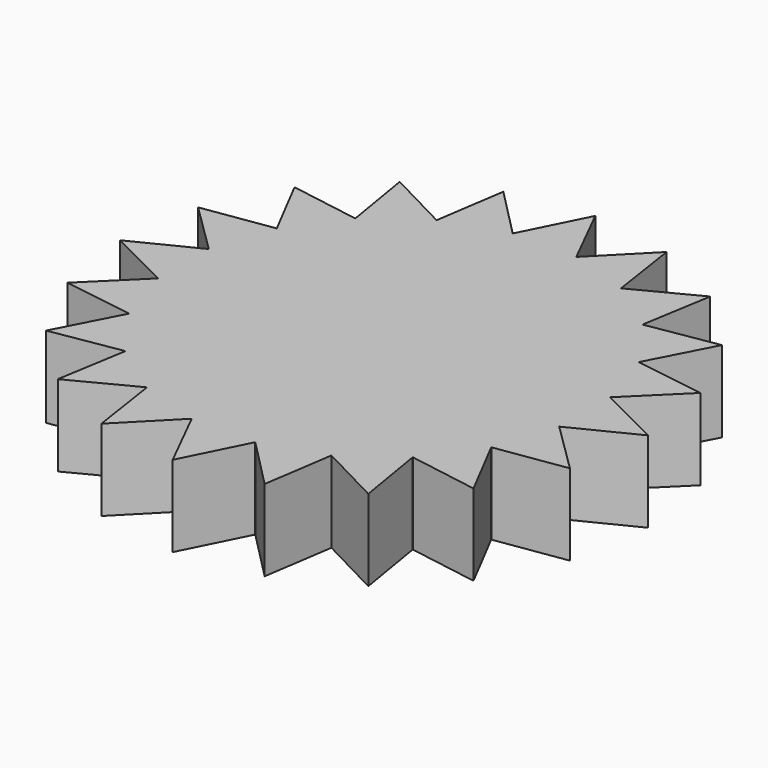
from build123d import *

# Parameters (mm, degrees)
F0_R     = 11.43
F0_R_2   = 5.08
F0_R_3   = 3.81
F1_DEPTH = 5.08


with BuildPart() as f1:
    # F0 (on Top) → F1 (new body)
    with BuildSketch(Plane.XY):
        with BuildLine():
            ThreePointArc((12.5445146004, -1.9812), (12.6610689799, -0.9936459568), (12.7, 0))
            ThreePointArc((12.7, 0), (12.6610689799, 0.9936459568), (12.5445146004, 1.9812))
            ThreePointArc((12.5445146004, 1.9812), (12.5436419256, 1.986717706), (12.5427668237, 1.9922350276))
            ThreePointArc((12.5427668237, 1.9922350276), (12.0784177569, 3.9245158286), (11.3183178852, 5.7607013678))
            ThreePointArc((11.3183178852, 5.7607013678), (11.3157828572, 5.7656793467), (11.3132456398, 5.77065621))
            ThreePointArc((11.3132456398, 5.77065621), (10.2745158286, 7.4648727041), (8.9842053561, 8.9763051485))
            ThreePointArc((8.9842053561, 8.9763051485), (8.9802561211, 8.9802561211), (8.9763051485, 8.9842053561))
            ThreePointArc((8.9763051485, 8.9842053561), (7.4648727041, 10.2745158286), (5.77065621, 11.3132456398))
            ThreePointArc((5.77065621, 11.3132456398), (5.7656793467, 11.3157828572), (5.7607013678, 11.3183178852))
            ThreePointArc((5.7607013678, 11.3183178852), (3.9245158286, 12.0784177569), (1.9922350276, 12.5427668237))
            ThreePointArc((1.9922350276, 12.5427668237), (1.986717706, 12.5436419256), (1.9812, 12.5445146004))
            ThreePointArc((1.9812, 12.5445146004), (0, 12.7), (-1.9812, 12.5445146004))
            ThreePointArc((-1.9812, 12.5445146004), (-1.986717706, 12.5436419256), (-1.9922350276, 12.5427668237))
            ThreePointArc((-1.9922350276, 12.5427668237), (-3.9245158286, 12.0784177569), (-5.7607013678, 11.3183178852))
            ThreePointArc((-5.7607013678, 11.3183178852), (-5.7656793467, 11.3157828572), (-5.77065621, 11.3132456398))
            ThreePointArc((-5.77065621, 11.3132456398), (-7.4648727041, 10.2745158286), (-8.9763051485, 8.9842053561))
            ThreePointArc((-8.9763051485, 8.9842053561), (-8.9802561211, 8.9802561211), (-8.9842053561, 8.9763051485))
            ThreePointArc((-8.9842053561, 8.9763051485), (-10.2745158286, 7.4648727041), (-11.3132456398, 5.77065621))
            ThreePointArc((-11.3132456398, 5.77065621), (-11.3157828572, 5.7656793467), (-11.3183178852, 5.7607013678))
            ThreePointArc((-11.3183178852, 5.7607013678), (-12.0784177569, 3.9245158286), (-12.5427668237, 1.9922350276))
            ThreePointArc((-12.5427668237, 1.9922350276), (-12.5436419256, 1.986717706), (-12.5445146004, 1.9812))
            Line((-12.5445146004, 1.9812), (-12.5445146004, 0))
            Line((-12.5445146004, 0), (-12.5445146004, -1.9812))
            ThreePointArc((-12.5445146004, -1.9812), (-12.5436419256, -1.986717706), (-12.5427668237, -1.9922350276))
            ThreePointArc((-12.5427668237, -1.9922350276), (-12.0784177569, -3.9245158286), (-11.3183178852, -5.7607013678))
            ThreePointArc((-11.3183178852, -5.7607013678), (-11.3157828572, -5.7656793467), (-11.3132456398, -5.77065621))
            ThreePointArc((-11.3132456398, -5.77065621), (-10.2745158286, -7.4648727041), (-8.9842053561, -8.9763051485))
            ThreePointArc((-8.9842053561, -8.9763051485), (-8.9802561211, -8.9802561211), (-8.9763051485, -8.9842053561))
            ThreePointArc((-8.9763051485, -8.9842053561), (-7.4648727041, -10.2745158286), (-5.77065621, -11.3132456398))
            ThreePointArc((-5.77065621, -11.3132456398), (-5.7656793467, -11.3157828572), (-5.7607013678, -11.3183178852))
            ThreePointArc((-5.7607013678, -11.3183178852), (-3.9245158286, -12.0784177569), (-1.9922350276, -12.5427668237))
            ThreePointArc((-1.9922350276, -12.5427668237), (-1.986717706, -12.5436419256), (-1.9812, -12.5445146004))
            ThreePointArc((-1.9812, -12.5445146004), (0, -12.7), (1.9812, -12.5445146004))
            ThreePointArc((1.9812, -12.5445146004), (1.986717706, -12.5436419256), (1.9922350276, -12.5427668237))
            ThreePointArc((1.9922350276, -12.5427668237), (3.9245158286, -12.0784177569), (5.7607013678, -11.3183178852))
            ThreePointArc((5.7607013678, -11.3183178852), (5.7656793467, -11.3157828572), (5.77065621, -11.3132456398))
            ThreePointArc((5.77065621, -11.3132456398), (7.4648727041, -10.2745158286), (8.9763051485, -8.9842053561))
            ThreePointArc((8.9763051485, -8.9842053561), (8.9802561211, -8.9802561211), (8.9842053561, -8.9763051485))
            ThreePointArc((8.9842053561, -8.9763051485), (10.2745158286, -7.4648727041), (11.3132456398, -5.77065621))
            ThreePointArc((11.3132456398, -5.77065621), (11.3157828572, -5.7656793467), (11.3183178852, -5.7607013678))
            ThreePointArc((11.3183178852, -5.7607013678), (12.0784177569, -3.9245158286), (12.5427668237, -1.9922350276))
            ThreePointArc((12.5427668237, -1.9922350276), (12.5436419256, -1.986717706), (12.5445146004, -1.9812))
        make_face()
        Circle(F0_R, mode=Mode.SUBTRACT)
        Circle(F0_R)
        Circle(F0_R_2, mode=Mode.SUBTRACT)
        Circle(F0_R_2)
        Circle(F0_R_3, mode=Mode.SUBTRACT)
        Circle(F0_R_3)
        with BuildLine():
            ThreePointArc((12.5445146004, 1.9812), (12.6610689799, 0.9936459568), (12.7, 0))
            ThreePointArc((12.7, 0), (12.6610689799, -0.9936459568), (12.5445146004, -1.9812))
            Line((12.5445146004, -1.9812), (16.5069146004, 0))
            Line((16.5069146004, 0), (12.5445146004, 1.9812))
        make_face()
        with BuildLine():
            ThreePointArc((11.3183178852, 5.7607013678), (12.0784177569, 3.9245158286), (12.5427668237, 1.9922350276))
            Line((12.5427668237, 1.9922350276), (15.6990086947, 5.1009171362))
            Line((15.6990086947, 5.1009171362), (11.3183178852, 5.7607013678))
        make_face()
        with BuildLine():
            Line((15.6990086947, -5.1009171362), (12.5427668237, -1.9922350276))
            ThreePointArc((12.5427668237, -1.9922350276), (12.0784177569, -3.9245158286), (11.3183178852, -5.7607013678))
            Line((11.3183178852, -5.7607013678), (15.6990086947, -5.1009171362))
        make_face()
        with BuildLine():
            ThreePointArc((8.9842053561, 8.9763051485), (10.2745158286, 7.4648727041), (11.3132456398, 5.77065621))
            Line((11.3132456398, 5.77065621), (13.3543744364, 9.702520963))
            Line((13.3543744364, 9.702520963), (8.9842053561, 8.9763051485))
        make_face()
        with BuildLine():
            Line((13.3543744364, -9.702520963), (11.3132456398, -5.77065621))
            ThreePointArc((11.3132456398, -5.77065621), (10.2745158286, -7.4648727041), (8.9842053561, -8.9763051485))
            Line((8.9842053561, -8.9763051485), (13.3543744364, -9.702520963))
        make_face()
        with BuildLine():
            ThreePointArc((5.77065621, 11.3132456398), (7.4648727041, 10.2745158286), (8.9763051485, 8.9842053561))
            Line((8.9763051485, 8.9842053561), (9.702520963, 13.3543744364))
            Line((9.702520963, 13.3543744364), (5.77065621, 11.3132456398))
        make_face()
        with BuildLine():
            Line((9.702520963, -13.3543744364), (8.9763051485, -8.9842053561))
            ThreePointArc((8.9763051485, -8.9842053561), (7.4648727041, -10.2745158286), (5.77065621, -11.3132456398))
            Line((5.77065621, -11.3132456398), (9.702520963, -13.3543744364))
        make_face()
        with BuildLine():
            ThreePointArc((1.9922350276, 12.5427668237), (3.9245158286, 12.0784177569), (5.7607013678, 11.3183178852))
            Line((5.7607013678, 11.3183178852), (5.1009171362, 15.6990086947))
            Line((5.1009171362, 15.6990086947), (1.9922350276, 12.5427668237))
        make_face()
        with BuildLine():
            Line((5.1009171362, -15.6990086947), (5.7607013678, -11.3183178852))
            ThreePointArc((5.7607013678, -11.3183178852), (3.9245158286, -12.0784177569), (1.9922350276, -12.5427668237))
            Line((1.9922350276, -12.5427668237), (5.1009171362, -15.6990086947))
        make_face()
        with BuildLine():
            ThreePointArc((-1.9812, 12.5445146004), (0, 12.7), (1.9812, 12.5445146004))
            Line((1.9812, 12.5445146004), (0, 16.5069146004))
            Line((0, 16.5069146004), (-1.9812, 12.5445146004))
        make_face()
        with BuildLine():
            Line((0, -16.5069146004), (1.9812, -12.5445146004))
            ThreePointArc((1.9812, -12.5445146004), (0, -12.7), (-1.9812, -12.5445146004))
            Line((-1.9812, -12.5445146004), (0, -16.5069146004))
        make_face()
        with BuildLine():
            ThreePointArc((-5.7607013678, 11.3183178852), (-3.9245158286, 12.0784177569), (-1.9922350276, 12.5427668237))
            Line((-1.9922350276, 12.5427668237), (-5.1009171362, 15.6990086947))
            Line((-5.1009171362, 15.6990086947), (-5.7607013678, 11.3183178852))
        make_face()
        with BuildLine():
            Line((-5.1009171362, -15.6990086947), (-1.9922350276, -12.5427668237))
            ThreePointArc((-1.9922350276, -12.5427668237), (-3.9245158286, -12.0784177569), (-5.7607013678, -11.3183178852))
            Line((-5.7607013678, -11.3183178852), (-5.1009171362, -15.6990086947))
        make_face()
        with BuildLine():
            ThreePointArc((-8.9763051485, 8.9842053561), (-7.4648727041, 10.2745158286), (-5.77065621, 11.3132456398))
            Line((-5.77065621, 11.3132456398), (-9.702520963, 13.3543744364))
            Line((-9.702520963, 13.3543744364), (-8.9763051485, 8.9842053561))
        make_face()
        with BuildLine():
            Line((-9.702520963, -13.3543744364), (-5.77065621, -11.3132456398))
            ThreePointArc((-5.77065621, -11.3132456398), (-7.4648727041, -10.2745158286), (-8.9763051485, -8.9842053561))
            Line((-8.9763051485, -8.9842053561), (-9.702520963, -13.3543744364))
        make_face()
        with BuildLine():
            ThreePointArc((-11.3132456398, 5.77065621), (-10.2745158286, 7.4648727041), (-8.9842053561, 8.9763051485))
            Line((-8.9842053561, 8.9763051485), (-13.3543744364, 9.702520963))
            Line((-13.3543744364, 9.702520963), (-11.3132456398, 5.77065621))
        make_face()
        with BuildLine():
            Line((-13.3543744364, -9.702520963), (-8.9842053561, -8.9763051485))
            ThreePointArc((-8.9842053561, -8.9763051485), (-10.2745158286, -7.4648727041), (-11.3132456398, -5.77065621))
            Line((-11.3132456398, -5.77065621), (-13.3543744364, -9.702520963))
        make_face()
        with BuildLine():
            ThreePointArc((-12.5427668237, 1.9922350276), (-12.0784177569, 3.9245158286), (-11.3183178852, 5.7607013678))
            Line((-11.3183178852, 5.7607013678), (-15.6990086947, 5.1009171362))
            Line((-15.6990086947, 5.1009171362), (-12.5427668237, 1.9922350276))
        make_face()
        with BuildLine():
            Line((-15.6990086947, -5.1009171362), (-11.3183178852, -5.7607013678))
            ThreePointArc((-11.3183178852, -5.7607013678), (-12.0784177569, -3.9245158286), (-12.5427668237, -1.9922350276))
            Line((-12.5427668237, -1.9922350276), (-15.6990086947, -5.1009171362))
        make_face()
        with BuildLine():
            ThreePointArc((-12.7, 0), (-12.6610689799, 0.9936459568), (-12.5445146004, 1.9812))
            Line((-12.5445146004, 1.9812), (-16.5069146004, 0))
            Line((-16.5069146004, 0), (-12.7, 0))
        make_face()
        with BuildLine():
            Line((-16.5069146004, 0), (-12.5445146004, -1.9812))
            ThreePointArc((-12.5445146004, -1.9812), (-12.6610689799, -0.9936459568), (-12.7, 0))
            Line((-12.7, 0), (-16.5069146004, 0))
        make_face()
        with BuildLine():
            Line((-12.5445146004, 0), (-12.5445146004, 1.9812))
            ThreePointArc((-12.5445146004, 1.9812), (-12.6610689799, 0.9936459568), (-12.7, 0))
            Line((-12.7, 0), (-12.5445146004, 0))
        make_face()
        with BuildLine():
            ThreePointArc((-12.7, 0), (-12.6610689799, -0.9936459568), (-12.5445146004, -1.9812))
            Line((-12.5445146004, -1.9812), (-12.5445146004, 0))
            Line((-12.5445146004, 0), (-12.7, 0))
        make_face()
    extrude(amount=F1_DEPTH)


solid = f1.part
